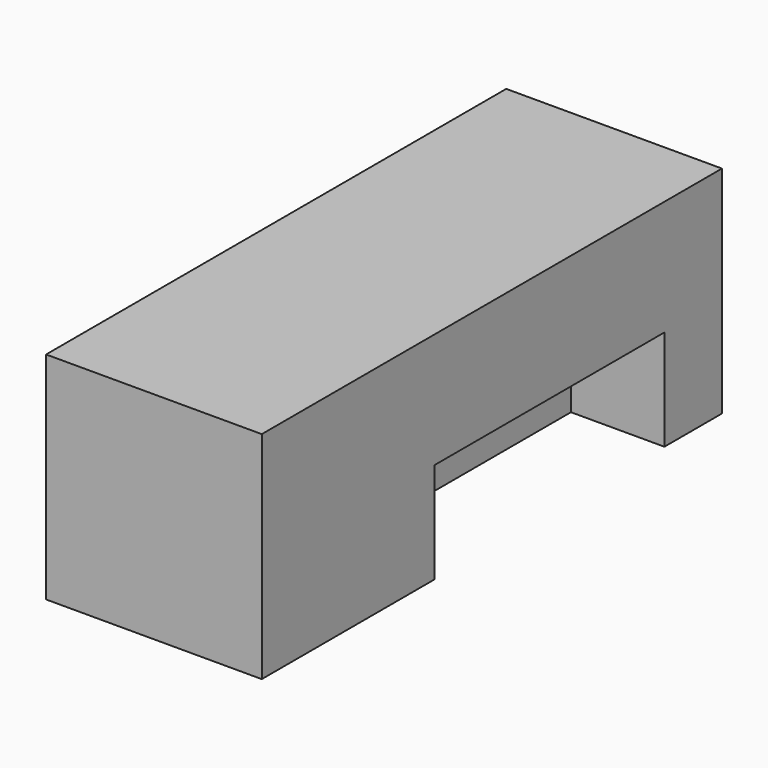
from build123d import *

# Parameters (mm, degrees)
F0_W     = 1500
F0_H     = 1500
F1_DEPTH = 4000
F3_W     = 650
F3_H     = 700
F4_DEPTH = 2000


with BuildPart() as f1:
    # F0 (on Front) → F1 (new body)
    with BuildSketch(Plane.XZ):
        with Locations((750, 750)):
            Rectangle(F0_W, F0_H)
    extrude(amount=-F1_DEPTH)

    # F3 (on offset) → F4 (cut)
    with BuildSketch(Plane(origin=(0, 3500, 0), x_dir=(-1, 0, 0), z_dir=(0, 1, 0))):
        with Locations((-1175, 350)):
            Rectangle(F3_W, F3_H)
    extrude(amount=-F4_DEPTH, mode=Mode.SUBTRACT)


solid = f1.part
